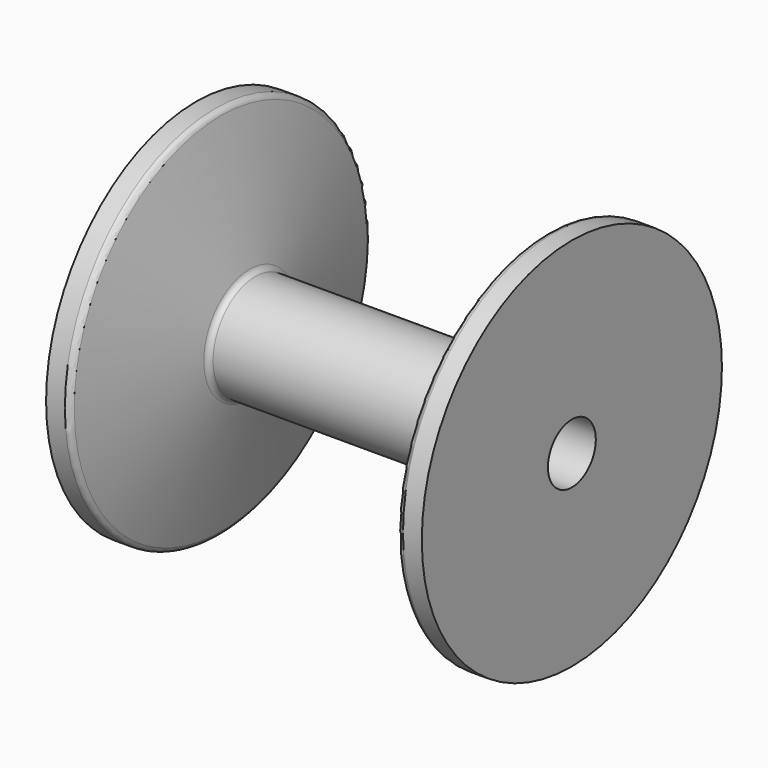
from build123d import *


with BuildPart() as f1:
    # F0 (on Front) → F1 (revolve)
    with BuildSketch(Plane.XZ):
        with BuildLine():
            Line((0, 5.1), (32, 5.1))
            Line((32, 5.1), (32, 31.95))
            Line((32, 31.95), (28.795436, 31.95))
            ThreePointArc((28.795436, 31.95), (28.172921, 31.732608), (27.821066, 31.174951))
            Line((27.821066, 31.174951), (22.880509, 9.775049))
            ThreePointArc((22.880509, 9.775049), (22.528654, 9.217392), (21.906139, 9))
            Line((21.906139, 9), (0, 9))
            Line((0, 9), (-21.906139, 9))
            ThreePointArc((-21.906139, 9), (-22.528654, 9.217392), (-22.880509, 9.775049))
            Line((-22.880509, 9.775049), (-27.821066, 31.174951))
            ThreePointArc((-27.821066, 31.174951), (-28.172921, 31.732608), (-28.795436, 31.95))
            Line((-28.795436, 31.95), (-32, 31.95))
            Line((-32, 31.95), (-32, 5.1))
            Line((-32, 5.1), (0, 5.1))
        make_face()
    revolve(axis=Axis((16, 0, 0), (1, 0, 0)))


solid = f1.part
